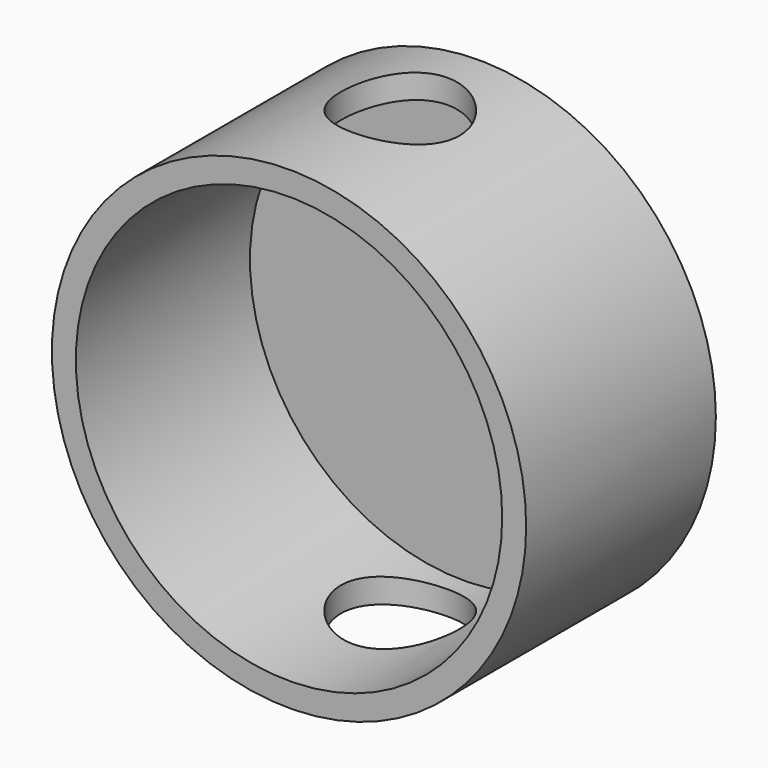
from build123d import *

# Parameters (mm, degrees)
F0_R     = 50
F1_DEPTH = 50
F2_R     = 12.5
F3_DEPTH = 104.2
F4_R     = 44.950947
F5_DEPTH = 45.9


with BuildPart() as f1:
    # F0 (on Front) → F1 (new body)
    with BuildSketch(Plane.XZ):
        Circle(F0_R)
    extrude(amount=-F1_DEPTH)

    # F2 (on Top) → F3 (cut, symmetric)
    with BuildSketch(Plane.XY):
        with Locations((0, 29.318675)):
            Circle(F2_R)
    extrude(amount=F3_DEPTH, both=True, mode=Mode.SUBTRACT)

    # F4 (on Front) → F5 (cut)
    with BuildSketch(Plane.XZ):
        Circle(F4_R)
    extrude(amount=-F5_DEPTH, mode=Mode.SUBTRACT)


solid = f1.part
